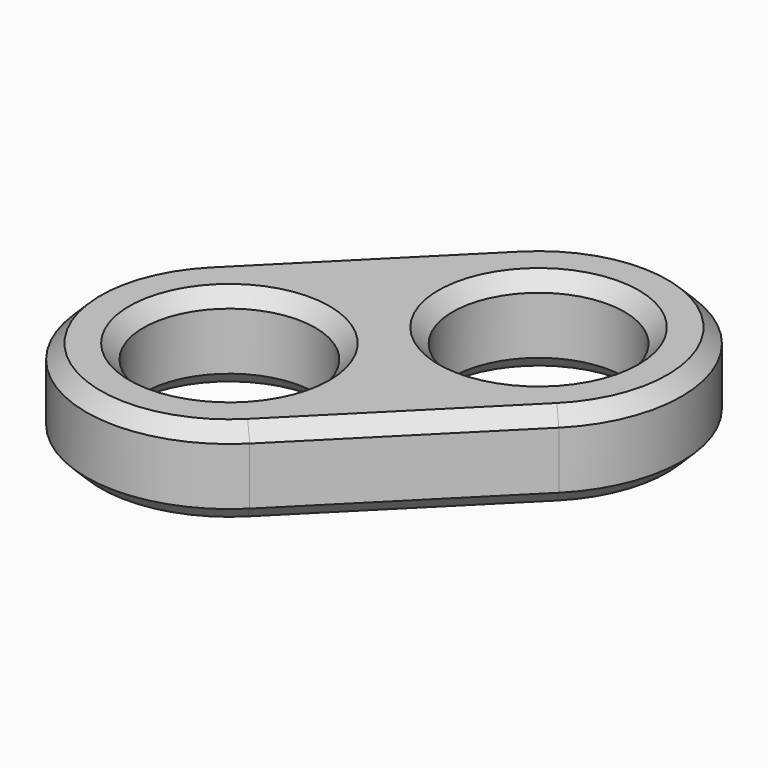
from build123d import *

# Parameters (mm, degrees)
F0_R     = 3
F1_DEPTH = 1.5
F2_SIZE  = 0.5


with BuildPart() as f1:
    # F0 (on Top) → F1 (new body, symmetric)
    with BuildSketch(Plane.XY):
        with BuildLine():
            Line((0.535534, -6.535534), (6.535534, -0.535534))
            ThreePointArc((6.535534, -0.535534), (6.535534, 6.535534), (-0.535534, 6.535534))
            Line((-0.535534, 6.535534), (-6.535534, 0.535534))
            ThreePointArc((-6.535534, 0.535534), (-6.535534, -6.535534), (0.535534, -6.535534))
        make_face()
        with Locations((-3, -3)):
            Circle(F0_R, mode=Mode.SUBTRACT)
        with Locations((3, 3)):
            Circle(F0_R, mode=Mode.SUBTRACT)
    extrude(amount=F1_DEPTH, both=True)

    # F2
    f2_edges = [f1.edges().sort_by_distance(p)[0] for p in [
        (-6, -3, -1.5),
        (-6, -3, 1.5),
        (0, 3, -1.5),
        (3.535534, -3.535534, 1.5),
        (0, 3, 1.5),
        (3.535534, -3.535534, -1.5),
    ]]
    chamfer(f2_edges, length=F2_SIZE)


solid = f1.part
